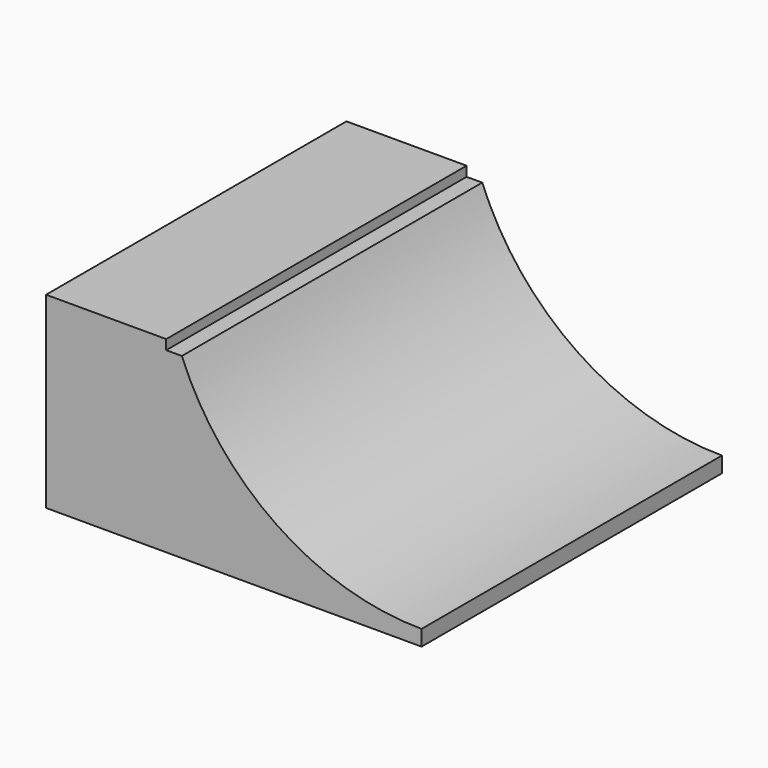
from build123d import *

# Parameters (mm, degrees)
F1_DEPTH = 101.6


with BuildPart() as f1:
    # F0 (on Front) → F1 (new body)
    with BuildSketch(Plane.XZ):
        with BuildLine():
            Line((0, -50.8), (0, -46.5666666667))
            ThreePointArc((0, -46.5666666667), (-39.1654835814, -34.5533971745), (-64.859084298, -2.6458333333))
            Line((-64.859084298, -2.6458333333), (-69.0924176313, -2.6458333333))
            Line((-69.0924176313, -2.6458333333), (-69.0924176313, 0))
            Line((-69.0924176313, 0), (-101.6, 0))
            Line((-101.6, 0), (-101.6, -50.8))
            Line((-101.6, -50.8), (0, -50.8))
        make_face()
    extrude(amount=F1_DEPTH)


solid = f1.part
